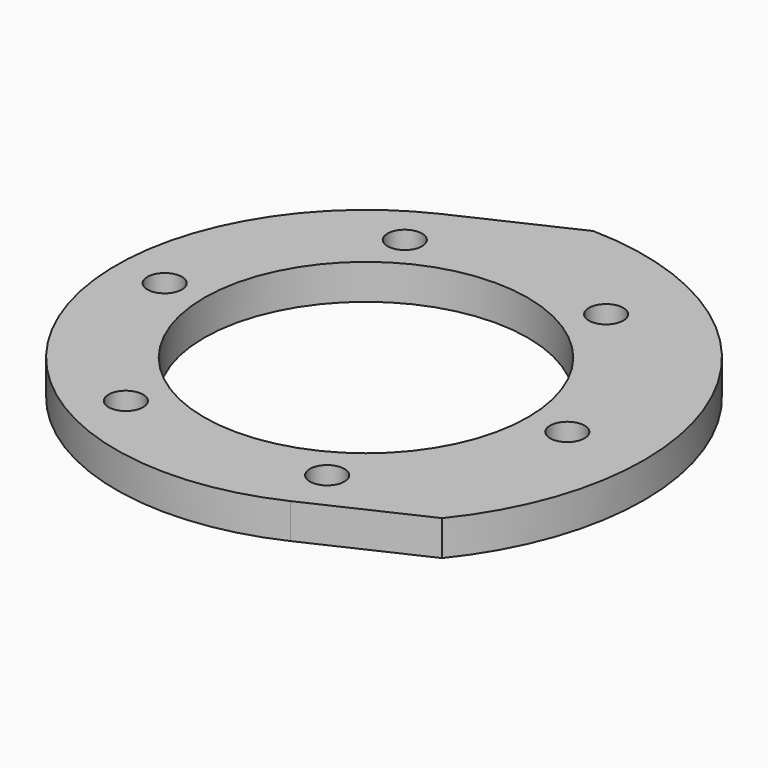
from build123d import *

# Parameters (mm, degrees)
F0_R     = 4.9
F0_R_2   = 46
F1_DEPTH = 10


with BuildPart() as f1:
    # F0 (on Top) → F1 (new body)
    with BuildSketch(Plane.XY):
        with BuildLine():
            Line((1.389526, 78.987779), (-30.005897, 64.347853))
            ThreePointArc((-30.005897, 64.347853), (-64.347853, -30.005897), (30.005897, -64.347853))
            Line((30.005897, -64.347853), (61.401319, -49.707927))
            ThreePointArc((61.401319, -49.707927), (71.598315, 33.386843), (1.389526, 78.987779))
        make_face()
        with Locations((-28.60465, -49.544707)):
            Circle(F0_R, mode=Mode.SUBTRACT)
        with Locations((-57.2093, 0)):
            Circle(F0_R, mode=Mode.SUBTRACT)
        Circle(F0_R_2, mode=Mode.SUBTRACT)
        with Locations((28.60465, -49.544707)):
            Circle(F0_R, mode=Mode.SUBTRACT)
        with Locations((57.2093, 0)):
            Circle(F0_R, mode=Mode.SUBTRACT)
        with Locations((-28.60465, 49.544707)):
            Circle(F0_R, mode=Mode.SUBTRACT)
        with Locations((28.60465, 49.544707)):
            Circle(F0_R, mode=Mode.SUBTRACT)
    extrude(amount=F1_DEPTH)


solid = f1.part
